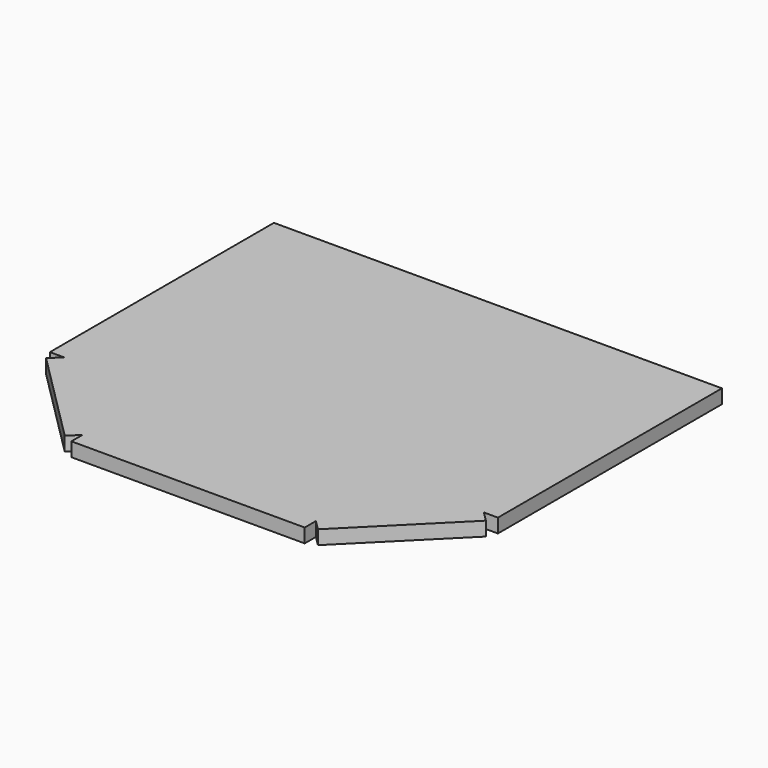
from build123d import *

# Parameters (mm, degrees)
F1_DEPTH = 3.81
F2_DEPTH = 3.81
F3_DEPTH = 3.81
F4_DEPTH = 3.81
F5_DEPTH = 3.81
F6_DEPTH = 3.81


with BuildPart() as f1:
    # F0 (on Top) → F1 (new body)
    with BuildSketch(Plane.XY):
        Polygon((57.15, -38.1), (57.15, 38.1), (-57.15, 38.1), (-57.15, -38.1), (-31.75, -63.5), (0, -63.5), (31.75, -63.5), align=None)
    extrude(amount=F1_DEPTH)

    # F2 (add): a face of the model
    f2_faces = [f1.faces().sort_by_distance(p)[0] for p in [
        (0, -63.5, 1.905),
    ]]
    extrude(f2_faces, amount=F2_DEPTH)

    # F3 (add): a face of the model
    f3_faces = [f1.faces().sort_by_distance(p)[0] for p in [
        (44.45, -50.8, 1.905),
    ]]
    extrude(f3_faces, amount=F3_DEPTH)

    # F4 (add): a face of the model
    f4_faces = [f1.faces().sort_by_distance(p)[0] for p in [
        (-44.45, -50.8, 1.905),
    ]]
    extrude(f4_faces, amount=F4_DEPTH)

    # F5 (add): a face of the model
    f5_faces = [f1.faces().sort_by_distance(p)[0] for p in [
        (-57.15, 0, 1.905),
    ]]
    extrude(f5_faces, amount=F5_DEPTH)

    # F6 (add): a face of the model
    f6_faces = [f1.faces().sort_by_distance(p)[0] for p in [
        (57.15, 0, 1.905),
    ]]
    extrude(f6_faces, amount=F6_DEPTH)


solid = f1.part
